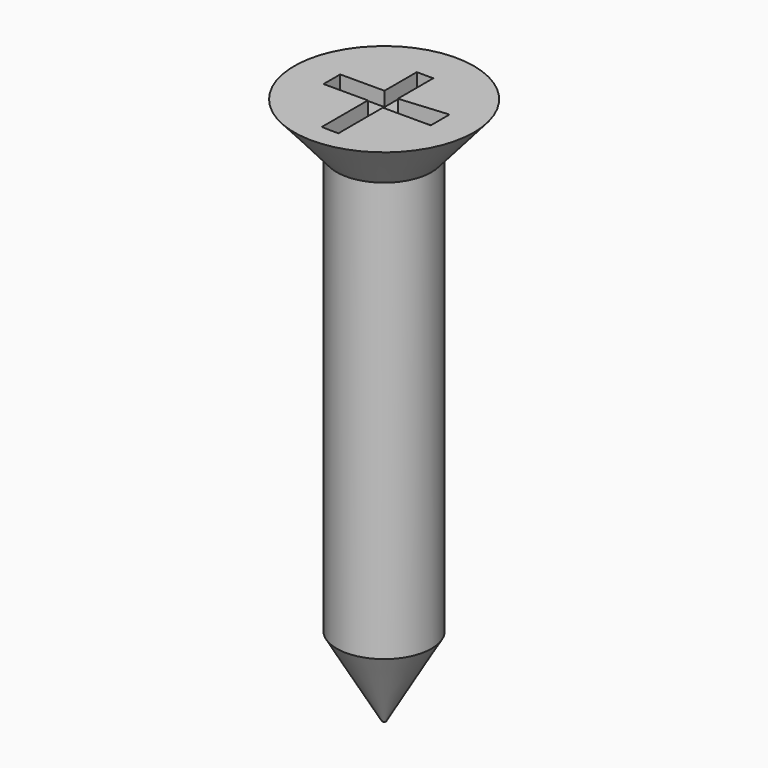
from build123d import *

# Parameters (mm, degrees)
F0_R     = 1.651
F1_DEPTH = 1.7
F1_TAPER = -41
F3_DEPTH = 17.35
F4_SIZE2 = 1.5877132403
F4_SIZE  = 2.75
F6_DEPTH = 0.5


with BuildPart() as f1:
    # F0 (on Top) → F1 (new body)
    with BuildSketch(Plane.XY):
        Circle(F0_R)
    extrude(amount=F1_DEPTH, taper=F1_TAPER)

    # F3 (add, through all): a face of the model
    f3_faces = [f1.faces().sort_by_distance(p)[0] for p in [
        (0, 0, 0),
    ]]
    extrude(f3_faces, amount=F3_DEPTH)

    # F4
    f4_edges = [f1.edges().sort_by_distance(p)[0] for p in [
        (-1.651, 0, -17.35),
    ]]
    f4_side = f1.faces().sort_by_distance((-1.651, 0, -8.675))[0]
    chamfer(f4_edges, length=F4_SIZE, length2=F4_SIZE2, reference=f4_side)

    # F5 (on face) → F6 (cut)
    with BuildSketch(Plane.XY.offset(1.7)):
        Polygon((-0.3023856843, -2.3319076281), (0, -2.3434136529), (0.2844197443, -2.3434136529), (0.2844197443, -0.4104074033), (1.9527882105, -0.4104074033), (1.9527882105, 0.40651788), (0.2729137486, 0.2569399949), (0.2729137486, 1.7987425672), (-0.3023856843, 1.7987425672), (-0.3023856843, 0.3950118844), (-1.8441881984, 0.3950118844), (-1.8441881984, -0.3298654919), (-0.3023856843, -0.3298654919), align=None)
    extrude(amount=-F6_DEPTH, mode=Mode.SUBTRACT)


solid = f1.part
